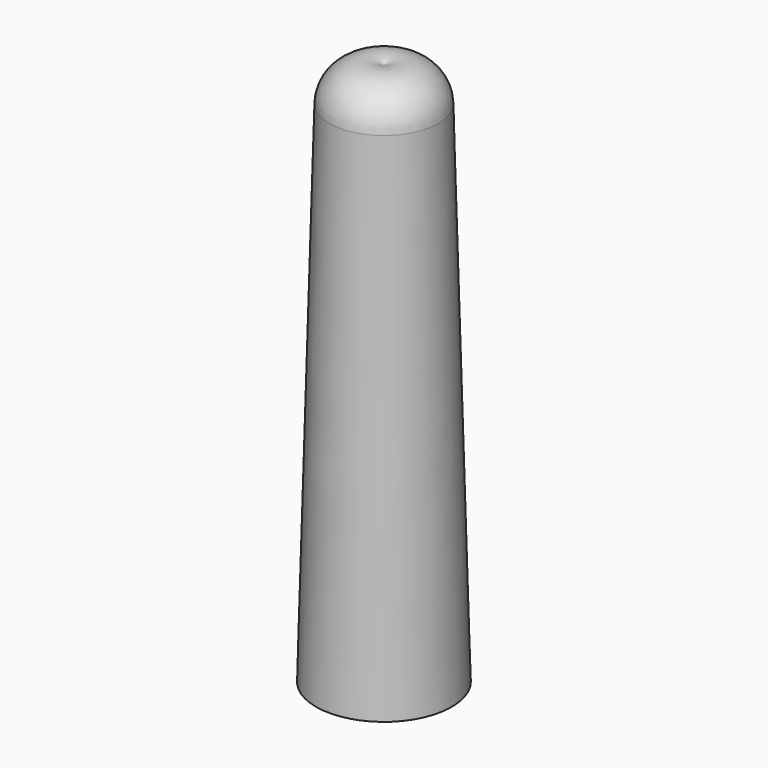
from build123d import *


with BuildPart() as f1:
    # F0 (on Front) → F1 (revolve)
    with BuildSketch(Plane.XZ):
        with BuildLine():
            Line((0, 0), (0, 101.6))
            ThreePointArc((0, 101.6), (-6.784814, 101.152703), (-10.16, 95.25))
            Line((-10.16, 95.25), (-12.7, 0))
            Line((-12.7, 0), (0, 0))
        make_face()
    revolve(axis=Axis((0, 0, 50.8), (0, 0, -1)))


solid = f1.part
